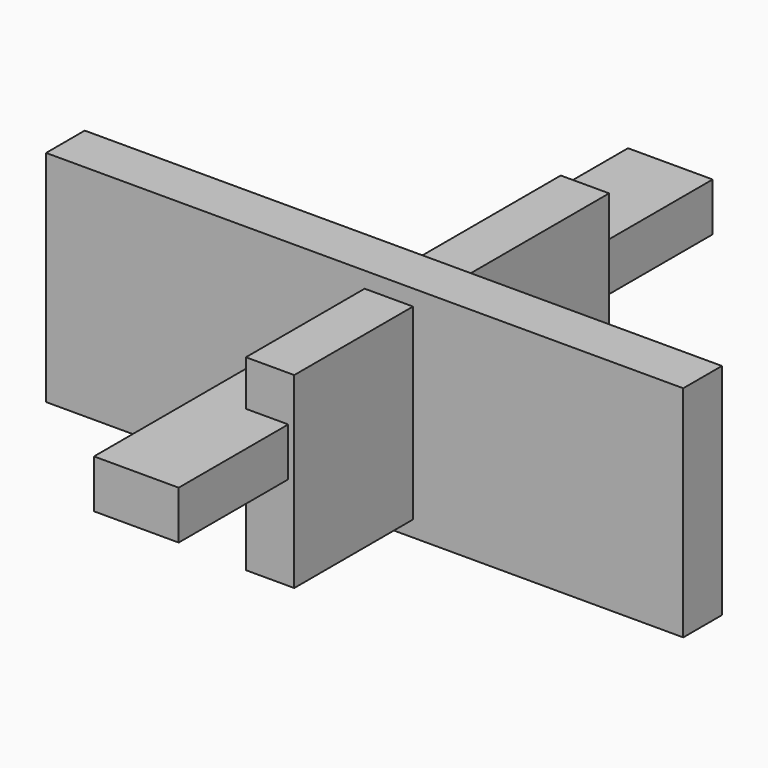
from build123d import *

# Parameters (mm, degrees)
F0_W     = 206.809192
F0_H     = 98.516002
F3_DEPTH = 25.4
F1_W     = 334.808738
F1_H     = 115.25692
F4_DEPTH = 25.4
F2_W     = 44.491924
F2_H     = 350.738764
F5_DEPTH = 25.4


with BuildPart() as f3:
    # F0 (on Right) → F3 (new body)
    with BuildSketch(Plane.YZ):
        Rectangle(F0_W, F0_H)
    extrude(amount=F3_DEPTH)

    # F1 (on Front) → F4 (join)
    with BuildSketch(Plane.XZ):
        Rectangle(F1_W, F1_H)
    extrude(amount=F4_DEPTH)

    # F2 (on Top) → F5 (join)
    with BuildSketch(Plane.XY):
        Rectangle(F2_W, F2_H)
    extrude(amount=F5_DEPTH)


solid = f3.part
